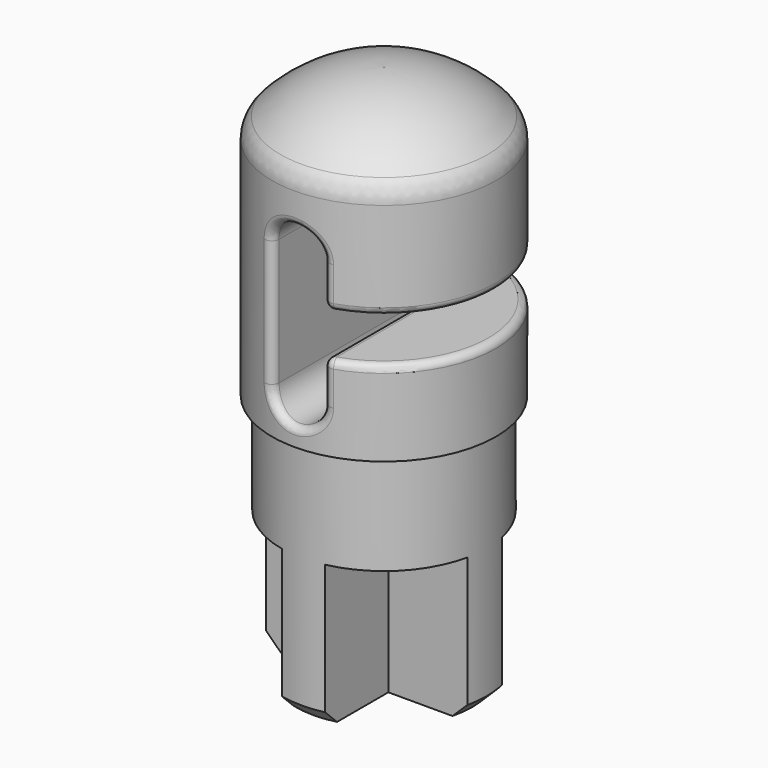
from build123d import *

# Parameters (mm, degrees)
F0_R      = 15.5
F1_DEPTH  = 40
F4_DEPTH  = 40
F5_R      = 1
F6_R      = 14.25
F7_DEPTH  = 34
F8_SIZE   = 2
F10_DEPTH = 20
F13_R     = 4


with BuildPart() as f1:
    # F0 (on Top) → F1 (new body)
    with BuildSketch(Plane.XY):
        Circle(F0_R)
    extrude(amount=F1_DEPTH)

    # F3 (on offset) → F4 (cut)
    with BuildSketch(Plane.XZ.offset(20)):
        with BuildLine():
            Line((19.5, 11.75), (19.5, 17.75))
            Line((19.5, 17.75), (3.5, 17.75))
            Line((3.5, 17.75), (3.5, 23.5))
            ThreePointArc((3.5, 23.5), (0, 27), (-3.5, 23.5))
            Line((-3.5, 23.5), (-3.5, 6))
            ThreePointArc((-3.5, 6), (0, 2.5), (3.5, 6))
            Line((3.5, 6), (3.5, 11.75))
            Line((3.5, 11.75), (19.5, 11.75))
        make_face()
    extrude(amount=-F4_DEPTH, mode=Mode.SUBTRACT)

    # F5
    f5_edges = [f1.edges().sort_by_distance(p)[0] for p in [
        (0, -15.5, 27),
        (0, 15.5, 27),
        (12.134661, -9.643651, 17.75),
        (12.134661, 9.643651, 17.75),
        (12.134661, -9.643651, 11.75),
        (12.134661, 9.643651, 11.75),
        (-3.5, -15.099669, 14.75),
        (-3.5, 15.099669, 14.75),
        (3.5, 0, 17.75),
        (3.5, 0, 11.75),
    ]]
    fillet(f5_edges, radius=F5_R)

    # F6 (on face) → F7 (join)
    with BuildSketch(Plane(origin=(0, 0, 0), x_dir=(1, 0, 0), z_dir=(0, 0, -1))):
        Circle(F6_R)
    extrude(amount=F7_DEPTH)

    # F8
    f8_edges = [f1.edges().sort_by_distance(p)[0] for p in [
        (-14.25, 0, -34),
    ]]
    chamfer(f8_edges, length=F8_SIZE)

    # F9 (on face) → F10 (cut)
    with BuildSketch(Plane(origin=(0, 0, -34), x_dir=(1, 0, 0), z_dir=(0, 0, -1))):
        Polygon((3, 21.450706), (3, 3), (33.327906, 3), align=None)
        Polygon((-23, 3), (-3, 3), (-3, 21.450706), align=None)
        Polygon((-3, -23), (-3, -3), (-23, -3), align=None)
        Polygon((33.327906, -3), (3, -3), (3, -23), align=None)
    extrude(amount=-F10_DEPTH, mode=Mode.SUBTRACT)

    # F11 (on Front) → F12 (revolve, cut)
    with BuildSketch(Plane.XZ):
        with BuildLine():
            ThreePointArc((0.1, 40), (14.242136, 34.142136), (20.1, 20))
            Line((20.1, 20), (20.1, 40))
            Line((20.1, 40), (0.1, 40))
        make_face()
    revolve(axis=Axis((0, 0, 20), (0, 0, 1)), mode=Mode.SUBTRACT)

    # F13
    f13_edges = [f1.edges().sort_by_distance(p)[0] for p in [
        (-15.5, 0, 32.760878),
    ]]
    fillet(f13_edges, radius=F13_R)


solid = f1.part
